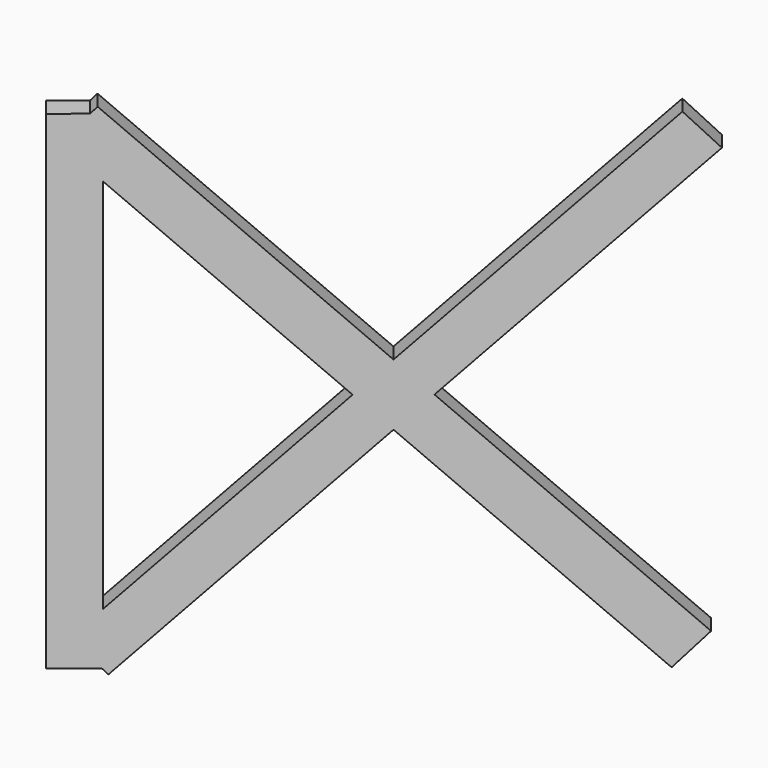
from build123d import *

# Parameters (mm, degrees)
BOX247_W                  = 0.5
BOX247_H                  = 1
BOX247_DEPTH              = 15
BOX247_ROLL_ANGLE         = 46
BOX248_W                  = 0.5
BOX248_H                  = 1
BOX248_DEPTH              = 15
BOX248_ROLL_ANGLE         = -46
BOX246_W                  = 0.5
BOX246_H                  = 1
BOX246_DEPTH              = 11
FUSION025_PLACEMENT_ANGLE = -51.1


with BuildPart() as cubo247:
    # Box247 → Box247 (new body)
    with BuildSketch(Plane.XY):
        with Locations((0.25, 0.5)):
            Rectangle(BOX247_W, BOX247_H)
    extrude(amount=BOX247_DEPTH)


with BuildPart() as cubo247_1:
    # Box247 roll: moved
    add(cubo247.part.rotate(Axis((0, 0, 0), (1, 0, 0)), BOX247_ROLL_ANGLE))


with BuildPart() as cubo247_2:
    # Box247 placement: moved
    add(cubo247_1.part.moved(Location((0, 11, 0.5))))


with BuildPart() as cubo248:
    # Box248 → Box248 (new body)
    with BuildSketch(Plane.XY):
        with Locations((0.25, 0.5)):
            Rectangle(BOX248_W, BOX248_H)
    extrude(amount=BOX248_DEPTH)


with BuildPart() as cubo248_1:
    # Box248 roll: moved
    add(cubo248.part.rotate(Axis((0, 0, 0), (1, 0, 0)), BOX248_ROLL_ANGLE))


with BuildPart() as cubo248_2:
    # Box248 placement: moved
    add(cubo248_1.part.moved(Location((0, 0.4, 1.1))))


with BuildPart() as fusion025:
    # Box246 → Box246 (new body)
    with BuildSketch(Plane.XY.offset(0.5)):
        with Locations((0.25, 0.5)):
            Rectangle(BOX246_W, BOX246_H)
    extrude(amount=BOX246_DEPTH)

    # Fusion025: union Cubo247, Cubo248
    add(cubo247_2.part)
    add(cubo248_2.part)


with BuildPart() as fusion025_1:
    # Fusion025 placement: moved
    add(fusion025.part.moved(Location((-155.2, 175.6, 0))).rotate(Axis((-155.2, 175.6, 0), (0, 0, 1)), FUSION025_PLACEMENT_ANGLE))


solid = fusion025_1.part
